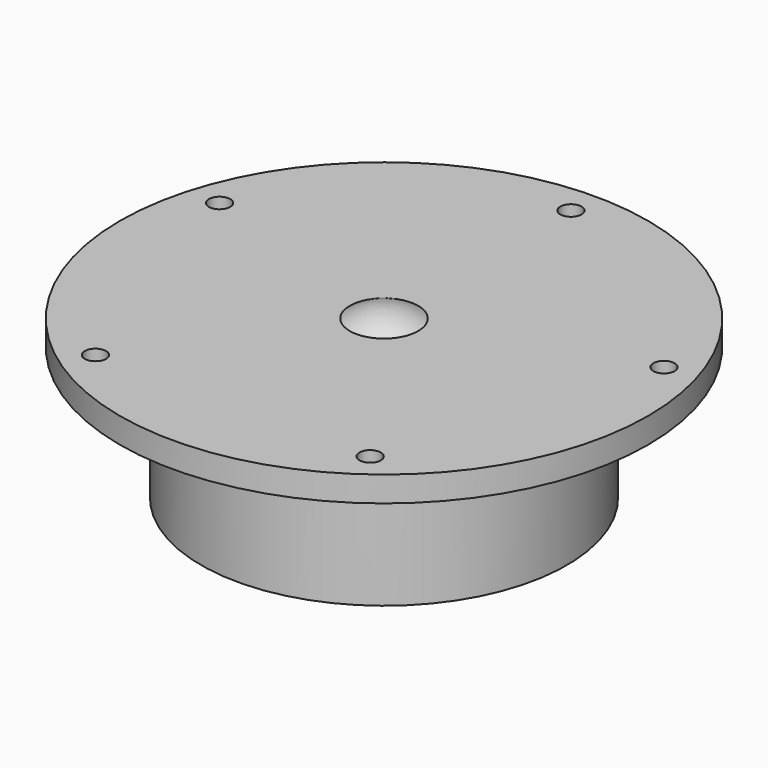
from build123d import *

# Parameters (mm, degrees)
F2_R     = 2.1
F3_DEPTH = 5


with BuildPart() as f1:
    # F0 (on Front) → F1 (revolve)
    with BuildSketch(Plane.XZ):
        with BuildLine():
            Line((-36, 0), (0, 0))
            Line((0, 0), (0, 33))
            ThreePointArc((0, 33), (-3.500786, 32.507969), (-6.730312, 31.07))
            Line((-6.730312, 31.07), (-52, 31.07))
            Line((-52, 31.07), (-52, 26.07))
            Line((-52, 26.07), (-36, 26.07))
            Line((-36, 26.07), (-36, 0))
        make_face()
    revolve(axis=Axis((0, 0, -11.5), (0, 0, -1)))

    # F2 (on face) → F3 (cut, through all)
    with BuildSketch(Plane.XY.offset(31.07)):
        with Locations((0, 46)):
            Circle(F2_R)
        with Locations((43.7486, 14.214782)):
            Circle(F2_R)
        with Locations((27.038122, -37.214782)):
            Circle(F2_R)
        with Locations((-27.038122, -37.214782)):
            Circle(F2_R)
        with Locations((-43.7486, 14.214782)):
            Circle(F2_R)
    extrude(amount=-F3_DEPTH, mode=Mode.SUBTRACT)


solid = f1.part
